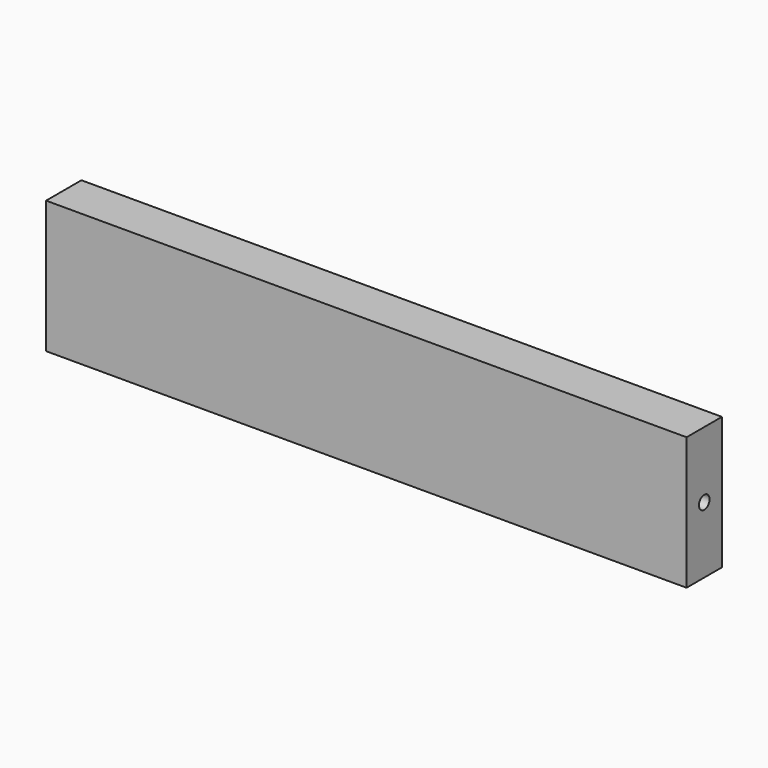
from build123d import *

# Parameters (mm, degrees)
F0_W     = 145
F0_H     = 30
F1_DEPTH = 10
F2_R     = 1.5
F3_DEPTH = 20
F4_R     = 1.5
F5_DEPTH = 20


with BuildPart() as f1:
    # F0 (on Front) → F1 (new body)
    with BuildSketch(Plane.XZ):
        Rectangle(F0_W, F0_H)
    extrude(amount=F1_DEPTH)

    # F2 (on face) → F3 (cut)
    with BuildSketch(Plane(origin=(-72.5, 0, 0), x_dir=(0, -1, 0), z_dir=(-1, 0, 0))):
        with Locations((5, 0)):
            Circle(F2_R)
    extrude(amount=-F3_DEPTH, mode=Mode.SUBTRACT)

    # F4 (on face) → F5 (cut)
    with BuildSketch(Plane.YZ.offset(72.5)):
        with Locations((-5, 0)):
            Circle(F4_R)
    extrude(amount=-F5_DEPTH, mode=Mode.SUBTRACT)


solid = f1.part
